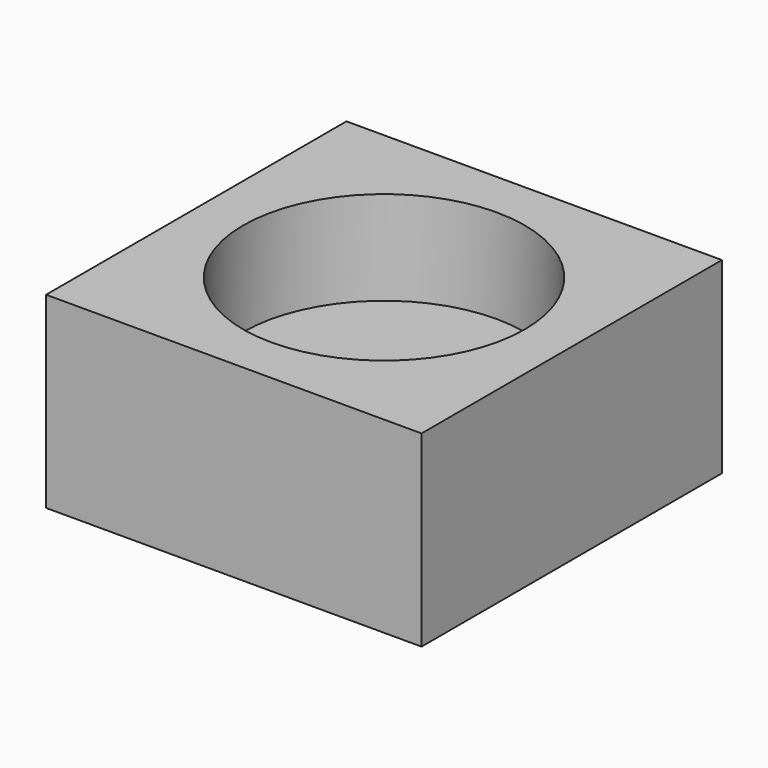
from build123d import *

# Parameters (mm, degrees)
F0_W     = 100
F0_H     = 100
F0_R     = 37.5
F1_DEPTH = 50
F2_DEPTH = 25


with BuildPart() as f1:
    # F0 (on Top) → F1 (new body)
    with BuildSketch(Plane.XY):
        Rectangle(F0_W, F0_H)
        Circle(F0_R, mode=Mode.SUBTRACT)
    extrude(amount=F1_DEPTH)

    # F0 (on Top) → F2 (join)
    with BuildSketch(Plane.XY):
        Rectangle(F0_W, F0_H)
        Circle(F0_R, mode=Mode.SUBTRACT)
        Circle(F0_R)
    extrude(amount=F2_DEPTH)


solid = f1.part
